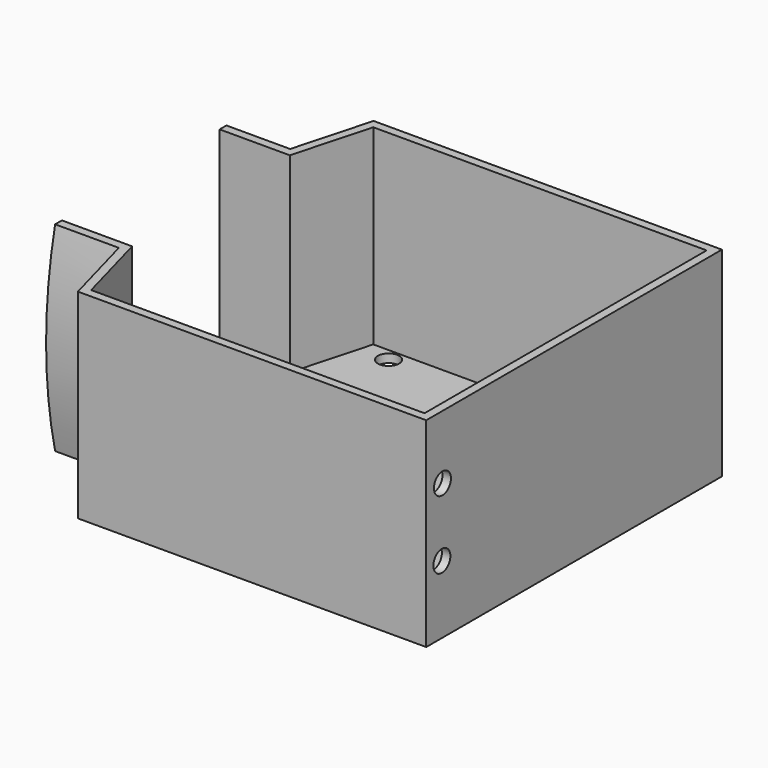
from build123d import *

# Parameters (mm, degrees)
PAD_DEPTH       = 15
SKETCH001_W     = 87
SKETCH001_H     = 47
SKETCH003_W     = 87
SKETCH003_H     = 47
PAD001_DEPTH    = 82
POCKET_DEPTH    = 45
SKETCH009_R     = 2.5
POCKET001_DEPTH = 5
SKETCH010_R     = 2.5
POCKET002_DEPTH = 5


with BuildPart() as part:
    # Sketch → Pad (new body)
    with BuildSketch(Plane.YZ):
        with BuildLine():
            Line((-25.2, 23.5), (25.2, 23.5))
            ThreePointArc((25.2, -23.5), (27.86, 0), (25.2, 23.5))
            Line((25.2, -23.5), (-25.2, -23.5))
            ThreePointArc((-25.2, 23.5), (-27.86, 0), (-25.2, -23.5))
        make_face()
    extrude(amount=PAD_DEPTH)

    # Sketch002 (on Face6 of Pad) → AdditiveLoft section 0
    with BuildSketch(Plane.YZ.offset(15)):
        with BuildLine():
            Line((-25.2, 23.5), (25.2, 23.5))
            ThreePointArc((25.2, -23.5), (27.86, 0), (25.2, 23.5))
            Line((-25.2, -23.5), (25.2, -23.5))
            ThreePointArc((-25.2, 23.5), (-27.86, 0), (-25.2, -23.5))
        make_face()
    # Sketch001 → AdditiveLoft section 1
    with BuildSketch(Plane.YZ.offset(20)):
        Rectangle(SKETCH001_W, SKETCH001_H)
    loft()

    # Sketch003 (on Face10 of AdditiveLoft) → Pad001 (join)
    with BuildSketch(Plane.YZ.offset(20)):
        Rectangle(SKETCH003_W, SKETCH003_H)
    extrude(amount=PAD001_DEPTH)

    # Sketch008 (on Face10 of Pad001) → Pocket (cut)
    with BuildSketch(Plane(origin=(0, 0, 23.5), x_dir=(0, -1, 0), z_dir=(0, 0, 1))):
        Polygon((-41.5, 100), (-41.5, 21.52686), (-23.2, 16.52686), (-23.2, 0), (23.2, 0), (23.2, 16.52686), (41.5, 21.52686), (41.5, 100), align=None)
    extrude(amount=-POCKET_DEPTH, mode=Mode.SUBTRACT)

    # Sketch009 (on Face7 of Pocket) → Pocket001 (cut)
    with BuildSketch(Plane(origin=(0, 0, -21.5), x_dir=(0, -1, 0), z_dir=(0, 0, 1))):
        with Locations((-38.5, 27.52686)):
            Circle(SKETCH009_R)
        with Locations((-5.1, 27.52686)):
            Circle(SKETCH009_R)
        with Locations((-38.5, 72.72686)):
            Circle(SKETCH009_R)
        with Locations((-5.1, 72.72686)):
            Circle(SKETCH009_R)
        with Locations((2.9, 27.52686)):
            Circle(SKETCH009_R)
        with Locations((38.9, 27.52686)):
            Circle(SKETCH009_R)
        with Locations((2.9, 83.62686)):
            Circle(SKETCH009_R)
        with Locations((38.9, 83.62686)):
            Circle(SKETCH009_R)
    extrude(amount=-POCKET001_DEPTH, mode=Mode.SUBTRACT)

    # Sketch010 (on Face17 of Pocket001) → Pocket002 (cut)
    with BuildSketch(Plane(origin=(100, 0, 0), x_dir=(0, 1, 0), z_dir=(-1, 0, 0))):
        with Locations((-38.9, 7.5)):
            Circle(SKETCH010_R)
        with Locations((-38.73686, -8.5)):
            Circle(SKETCH010_R)
    extrude(amount=-POCKET002_DEPTH, mode=Mode.SUBTRACT)


solid = part.part
